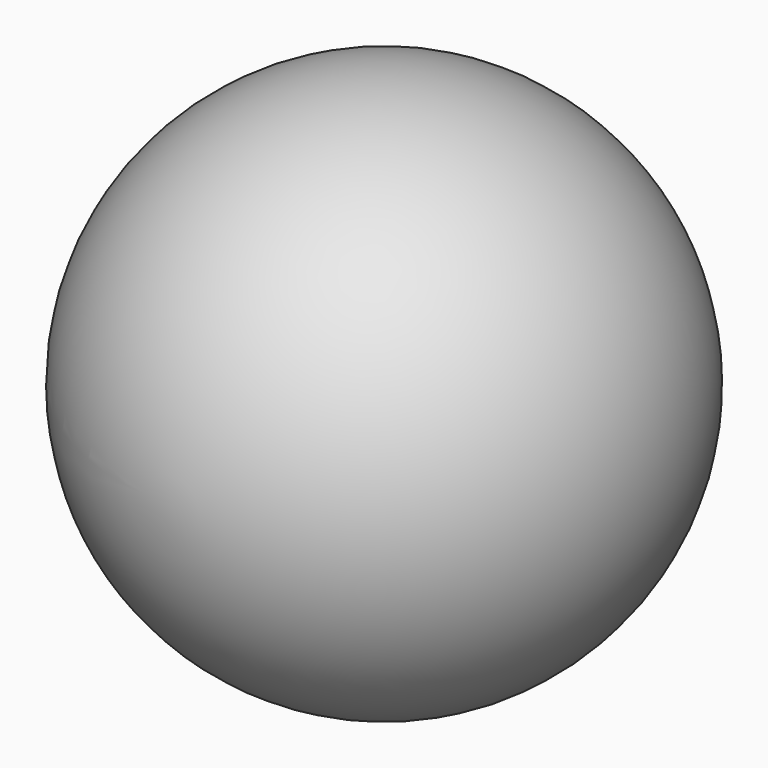
from build123d import *


with BuildPart() as f1:
    # F0 (on Top) → F1 (revolve)
    with BuildSketch(Plane.XY):
        with BuildLine():
            Line((-47.734716, 1.654827), (-47.734716, 5.654827))
            ThreePointArc((-47.734716, 5.654827), (-51.734716, 1.654827), (-47.734716, -2.345173))
            Line((-47.734716, -2.345173), (-47.734716, 1.654827))
        make_face()
    revolve(axis=Axis((-47.734716, 3.654827, 0), (0, -1, 0)))


solid = f1.part
